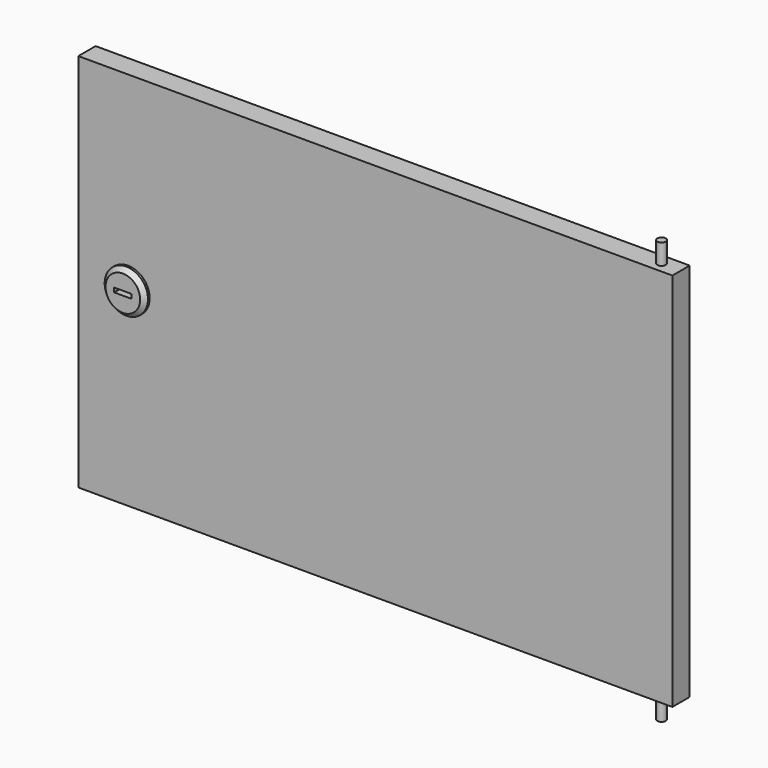
from build123d import *

# Parameters (mm, degrees)
F0_W          = 274.5
F0_H          = 10
F1_DEPTH      = 175.5
F2_T          = -2.5
F3_R          = 2
F4_DEPTH      = 10
F4_DEPTH_BACK = 185
F5_R          = 10
F5_W          = 8
F5_H          = 2
F6_DEPTH      = 3
F7_SIZE       = 2


with BuildPart() as f1:
    # F0 (on Top) → F1 (new body)
    with BuildSketch(Plane.XY):
        with Locations((137.25, 5)):
            Rectangle(F0_W, F0_H)
    extrude(amount=F1_DEPTH)

    # F2
    f2_openings = [f1.faces().sort_by_distance(p)[0] for p in [
        (137.25, 10, 87.75),
    ]]
    offset(amount=F2_T, openings=f2_openings)

    # F3 (on face) → F4 (join, two sides)
    with BuildSketch(Plane(origin=(0, 0, 0), x_dir=(1, 0, 0), z_dir=(0, 0, -1))) as f4_sk:
        with Locations((265.5, -5)):
            Circle(F3_R)
    extrude(amount=F4_DEPTH)
    extrude(f4_sk.sketch, amount=-F4_DEPTH_BACK)

    # F5 (on face) → F6 (join)
    with BuildSketch(Plane.XZ):
        with Locations((22.982316, 87.75)):
            Circle(F5_R)
        with Locations((22.982316, 87.75)):
            Rectangle(F5_W, F5_H, mode=Mode.SUBTRACT)
    extrude(amount=F6_DEPTH)

    # F7
    f7_edges = [f1.edges().sort_by_distance(p)[0] for p in [
        (12.982316, -3, 87.75),
    ]]
    chamfer(f7_edges, length=F7_SIZE)


solid = f1.part
